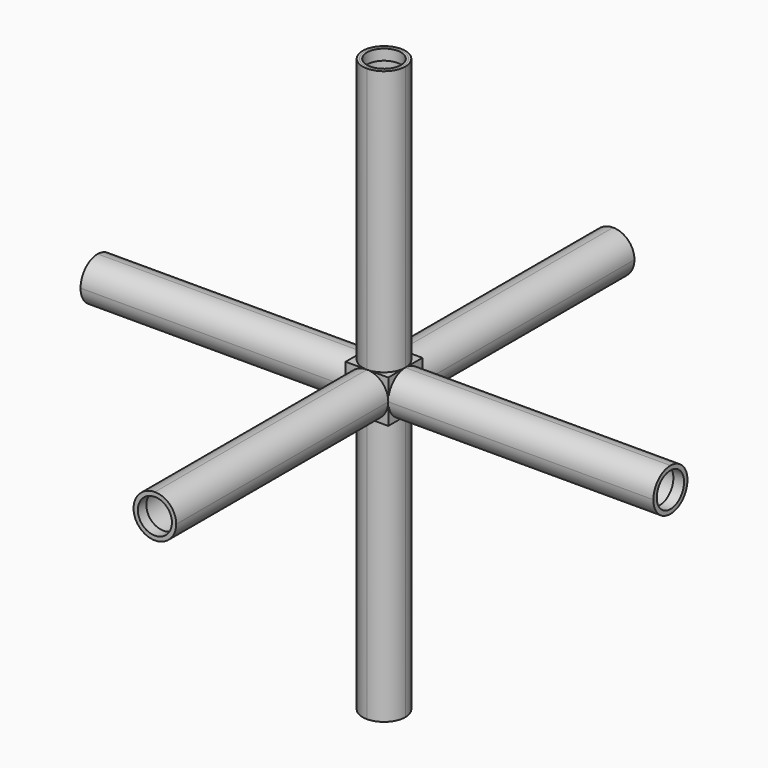
from build123d import *

# Parameters (mm, degrees)
F0_W      = 2.54
F0_H      = 2.54
F1_DEPTH  = 5.08
F8_DEPTH  = 31.5722
F9_R      = 2.286
F9_R_2    = 2.032
F10_DEPTH = 7.62
F11_DEPTH = 1.27
F12_DEPTH = 31.5722
F13_R     = 2.286
F13_R_2   = 2.032
F14_DEPTH = 7.62
F15_DEPTH = 1.27
F16_DEPTH = 31.5722
F17_R     = 2.286
F17_R_2   = 2.032
F18_DEPTH = 7.62
F19_DEPTH = 1.27
F20_DEPTH = 31.5722
F21_R     = 2.286
F21_R_2   = 2.032
F22_DEPTH = 7.62
F23_DEPTH = 1.27
F24_DEPTH = 31.5722
F25_R     = 2.286
F25_R_2   = 2.032
F26_DEPTH = 7.62
F27_DEPTH = 1.27
F28_DEPTH = 31.5722
F29_R     = 2.286
F29_R_2   = 2.032
F30_DEPTH = 7.62
F31_DEPTH = 1.27


with BuildPart() as f1:
    # F0 (on Top) → F1 (new body)
    with BuildSketch(Plane.XY):
        with Locations((-1.27, 1.27)):
            Rectangle(F0_W, F0_H)
        with Locations((1.27, 1.27)):
            Rectangle(F0_W, F0_H)
        Polygon((2.54, -2.54), (2.54, 0), (0, -2.54), align=None)
        Polygon((2.54, 0), (0, 0), (0, -2.54), align=None)
        with Locations((-1.27, -1.27)):
            Rectangle(F0_W, F0_H)
    extrude(amount=F1_DEPTH)

    # F7 (on face) → F8 (join)
    with BuildSketch(Plane(origin=(0, 0, 0), x_dir=(1, 0, 0), z_dir=(0, 0, -1))):
        with BuildLine():
            ThreePointArc((0, -2.54), (1.7960512242, -1.7960512242), (2.54, 0))
            ThreePointArc((2.54, 0), (1.7960512242, 1.7960512242), (0, 2.54))
            ThreePointArc((0, 2.54), (-1.7960512242, 1.7960512242), (-2.54, 0))
            ThreePointArc((-2.54, 0), (-1.7960512242, -1.7960512242), (0, -2.54))
        make_face()
    extrude(amount=F8_DEPTH)

    # F9 (on face) → F10 (cut)
    with BuildSketch(Plane(origin=(0, 0, -31.5722), x_dir=(1, 0, 0), z_dir=(0, 0, -1))):
        Circle(F9_R)
        Circle(F9_R_2, mode=Mode.SUBTRACT)
        Circle(F9_R_2)
    extrude(amount=-F10_DEPTH, mode=Mode.SUBTRACT)

    # F9 (on face) → F11 (join)
    with BuildSketch(Plane(origin=(0, 0, -31.5722), x_dir=(1, 0, 0), z_dir=(0, 0, -1))):
        Circle(F9_R)
        Circle(F9_R_2, mode=Mode.SUBTRACT)
    extrude(amount=-F11_DEPTH)

    # F6 (on face) → F12 (join)
    with BuildSketch(Plane.YZ.offset(2.54)):
        with BuildLine():
            ThreePointArc((0, 0), (1.7960512242, 0.7439487758), (2.54, 2.54))
            ThreePointArc((2.54, 2.54), (1.7960512242, 4.3360512242), (0, 5.08))
            ThreePointArc((0, 5.08), (-1.7960512242, 4.3360512242), (-2.54, 2.54))
            ThreePointArc((-2.54, 2.54), (-1.7960512242, 0.7439487758), (0, 0))
        make_face()
    extrude(amount=F12_DEPTH)

    # F13 (on face) → F14 (cut)
    with BuildSketch(Plane.YZ.offset(34.1122)):
        with Locations((0, 2.54)):
            Circle(F13_R)
        with Locations((0, 2.54)):
            Circle(F13_R_2, mode=Mode.SUBTRACT)
        with Locations((0, 2.54)):
            Circle(F13_R_2)
    extrude(amount=-F14_DEPTH, mode=Mode.SUBTRACT)

    # F13 (on face) → F15 (join)
    with BuildSketch(Plane.YZ.offset(34.1122)):
        with Locations((0, 2.54)):
            Circle(F13_R)
        with Locations((0, 2.54)):
            Circle(F13_R_2, mode=Mode.SUBTRACT)
    extrude(amount=-F15_DEPTH)

    # F3 (on face) → F16 (join)
    with BuildSketch(Plane.XZ.offset(2.54)):
        with BuildLine():
            Line((0, 2.54), (0, 5.08))
            ThreePointArc((0, 5.08), (-1.7960512242, 4.3360512242), (-2.54, 2.54))
            Line((-2.54, 2.54), (0, 2.54))
        make_face()
        with BuildLine():
            ThreePointArc((2.54, 2.54), (1.7960512242, 4.3360512242), (0, 5.08))
            Line((0, 5.08), (0, 2.54))
            Line((0, 2.54), (2.54, 2.54))
        make_face()
        with BuildLine():
            Line((2.54, 2.54), (0, 2.54))
            Line((0, 2.54), (0, 0))
            ThreePointArc((0, 0), (1.7960512242, 0.7439487758), (2.54, 2.54))
        make_face()
        Polygon((0, 0), (0, 2.54), (-2.54, 2.54), align=None)
        with BuildLine():
            Line((0, 0), (-2.54, 2.54))
            ThreePointArc((-2.54, 2.54), (-1.7960512242, 0.7439487758), (0, 0))
        make_face()
    extrude(amount=F16_DEPTH)

    # F17 (on face) → F18 (cut)
    with BuildSketch(Plane.XZ.offset(34.1122)):
        with Locations((0, 2.54)):
            Circle(F17_R)
        with Locations((0, 2.54)):
            Circle(F17_R_2, mode=Mode.SUBTRACT)
        with Locations((0, 2.54)):
            Circle(F17_R_2)
    extrude(amount=-F18_DEPTH, mode=Mode.SUBTRACT)

    # F17 (on face) → F19 (join)
    with BuildSketch(Plane.XZ.offset(34.1122)):
        with Locations((0, 2.54)):
            Circle(F17_R)
        with Locations((0, 2.54)):
            Circle(F17_R_2, mode=Mode.SUBTRACT)
    extrude(amount=-F19_DEPTH)

    # F4 (on face) → F20 (join)
    with BuildSketch(Plane(origin=(0, 2.54, 0), x_dir=(-1, 0, 0), z_dir=(0, 1, 0))):
        with BuildLine():
            ThreePointArc((0, 0), (1.7960512242, 0.7439487758), (2.54, 2.54))
            ThreePointArc((2.54, 2.54), (1.7960512242, 4.3360512242), (0, 5.08))
            ThreePointArc((0, 5.08), (-1.7960512242, 4.3360512242), (-2.54, 2.54))
            ThreePointArc((-2.54, 2.54), (-1.7960512242, 0.7439487758), (0, 0))
        make_face()
    extrude(amount=F20_DEPTH)

    # F21 (on face) → F22 (cut)
    with BuildSketch(Plane(origin=(0, 34.1122, 0), x_dir=(-1, 0, 0), z_dir=(0, 1, 0))):
        with Locations((0, 2.54)):
            Circle(F21_R)
        with Locations((0, 2.54)):
            Circle(F21_R_2, mode=Mode.SUBTRACT)
        with Locations((0, 2.54)):
            Circle(F21_R_2)
    extrude(amount=-F22_DEPTH, mode=Mode.SUBTRACT)

    # F21 (on face) → F23 (join)
    with BuildSketch(Plane(origin=(0, 34.1122, 0), x_dir=(-1, 0, 0), z_dir=(0, 1, 0))):
        with Locations((0, 2.54)):
            Circle(F21_R)
        with Locations((0, 2.54)):
            Circle(F21_R_2, mode=Mode.SUBTRACT)
    extrude(amount=-F23_DEPTH)

    # F2 (on face) → F24 (join)
    with BuildSketch(Plane.XY.offset(5.08)):
        with BuildLine():
            ThreePointArc((0, -2.54), (1.7960512242, -1.7960512242), (2.54, 0))
            ThreePointArc((2.54, 0), (1.7960512242, 1.7960512242), (0, 2.54))
            ThreePointArc((0, 2.54), (-1.7960512242, 1.7960512242), (-2.54, 0))
            ThreePointArc((-2.54, 0), (-1.7960512242, -1.7960512242), (0, -2.54))
        make_face()
    extrude(amount=F24_DEPTH)

    # F25 (on face) → F26 (cut)
    with BuildSketch(Plane.XY.offset(36.6522)):
        Circle(F25_R)
        Circle(F25_R_2, mode=Mode.SUBTRACT)
        Circle(F25_R_2)
    extrude(amount=-F26_DEPTH, mode=Mode.SUBTRACT)

    # F5 (on face) → F28 (join)
    with BuildSketch(Plane(origin=(-2.54, 0, 0), x_dir=(0, -1, 0), z_dir=(-1, 0, 0))):
        Polygon((0, 5.08), (0, 2.54), (2.54, 2.54), align=None)
        with BuildLine():
            ThreePointArc((2.54, 2.54), (1.7960512242, 4.3360512242), (0, 5.08))
            Line((0, 5.08), (2.54, 2.54))
        make_face()
        with BuildLine():
            Line((2.54, 2.54), (0, 2.54))
            Line((0, 2.54), (0, 0))
            ThreePointArc((0, 0), (1.7960512242, 0.7439487758), (2.54, 2.54))
        make_face()
        with BuildLine():
            ThreePointArc((0, 5.08), (-1.7960512242, 4.3360512242), (-2.54, 2.54))
            Line((-2.54, 2.54), (0, 2.54))
            Line((0, 2.54), (0, 5.08))
        make_face()
        with BuildLine():
            Line((0, 2.54), (-2.54, 2.54))
            ThreePointArc((-2.54, 2.54), (-1.7960512242, 0.7439487758), (0, 0))
            Line((0, 0), (0, 2.54))
        make_face()
    extrude(amount=F28_DEPTH)

    # F29 (on face) → F30 (cut)
    with BuildSketch(Plane(origin=(-34.1122, 0, 0), x_dir=(0, -1, 0), z_dir=(-1, 0, 0))):
        with Locations((0, 2.54)):
            Circle(F29_R)
        with Locations((0, 2.54)):
            Circle(F29_R_2, mode=Mode.SUBTRACT)
        with Locations((0, 2.54)):
            Circle(F29_R_2)
    extrude(amount=-F30_DEPTH, mode=Mode.SUBTRACT)


with BuildPart() as f27:
    # F25 (on face) → F27 (new body)
    with BuildSketch(Plane.XY.offset(36.6522)):
        Circle(F25_R)
        Circle(F25_R_2, mode=Mode.SUBTRACT)
    extrude(amount=-F27_DEPTH)


with BuildPart() as f31:
    # F29 (on face) → F31 (new body)
    with BuildSketch(Plane(origin=(-34.1122, 0, 0), x_dir=(0, -1, 0), z_dir=(-1, 0, 0))):
        with Locations((0, 2.54)):
            Circle(F29_R)
        with Locations((0, 2.54)):
            Circle(F29_R_2, mode=Mode.SUBTRACT)
    extrude(amount=-F31_DEPTH)


solid = Compound([f1.part, f27.part, f31.part])
